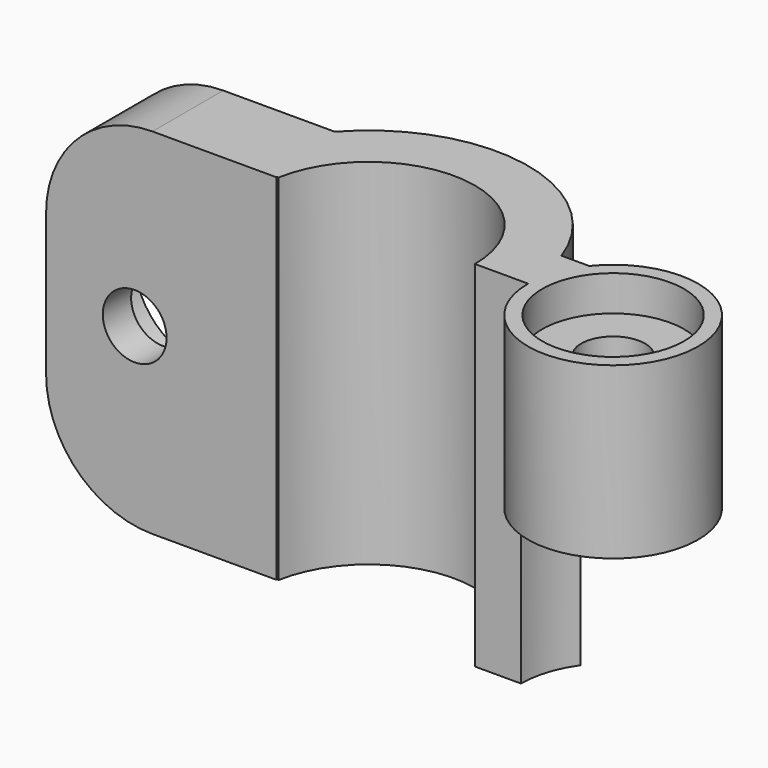
from build123d import *

# Parameters (mm, degrees)
CYLINDER095_R     = 4
CYLINDER095_DEPTH = 20
CYLINDER096_R     = 4
CYLINDER096_DEPTH = 2
CYLINDER005_R     = 5.2
CYLINDER005_DEPTH = 10.4
CYLINDER003_R     = 1.8
CYLINDER003_DEPTH = 50
CYLINDER001_W     = 6
CYLINDER001_H     = 20
CYLINDER001_ANGLE = 180
CYLINDER004_R     = 1.8
CYLINDER004_DEPTH = 20
BOX_W             = 13
BOX_H             = 5
BOX_DEPTH         = 20
FILLET_R          = 6
CYLINDER002_R     = 4.8
CYLINDER002_DEPTH = 20
CYLINDER_W        = 9
CYLINDER_H        = 20
CYLINDER_ANGLE    = 170
BOX001_W          = 7.8
BOX001_H          = 3
BOX001_DEPTH      = 20


with BuildPart() as bolt_head_cylinder:
    # Cylinder095 → Cylinder095 (new body)
    with BuildSketch(Plane(origin=(-14, 3, 10), x_dir=(1, 0, 0), z_dir=(0, 1, 0))):
        Circle(CYLINDER095_R)
    extrude(amount=CYLINDER095_DEPTH)


with BuildPart() as bolt_head_side_cylinder:
    # Cylinder096 → Cylinder096 (new body)
    with BuildSketch(Plane(origin=(13.8, 0, 18), x_dir=(1, 0, 0), z_dir=(0, 0, 1))):
        Circle(CYLINDER096_R)
    extrude(amount=CYLINDER096_DEPTH)


with BuildPart() as top_half_remove_fusion:
    # Cylinder005 → Cylinder005 (new body)
    with BuildSketch(Plane(origin=(13.8, 0, 0), x_dir=(1, 0, 0), z_dir=(0, 0, 1))):
        Circle(CYLINDER005_R)
    extrude(amount=CYLINDER005_DEPTH)

    # Fusion002: union bolt head cylinder, bolt head side cylinder
    add(bolt_head_cylinder.part)
    add(bolt_head_side_cylinder.part)


with BuildPart() as bolt_hole:
    # Cylinder003 → Cylinder003 (new body)
    with BuildSketch(Plane(origin=(-14, 20, 10), x_dir=(1, 0, 0), z_dir=(0, -1, 0))):
        Circle(CYLINDER003_R)
    extrude(amount=CYLINDER003_DEPTH)


with BuildPart() as hole_cylinder:
    # Cylinder001 → Cylinder001 (revolve)
    with BuildSketch(Plane.XZ):
        with Locations((3, 10)):
            Rectangle(CYLINDER001_W, CYLINDER001_H)
    revolve(axis=Axis((0, 0, 0), (0, 0, 1)), revolution_arc=CYLINDER001_ANGLE)


with BuildPart() as hole_fusion:
    # Cylinder004 → Cylinder004 (new body)
    with BuildSketch(Plane(origin=(13.8, 0, 0), x_dir=(1, 0, 0), z_dir=(0, 0, 1))):
        Circle(CYLINDER004_R)
    extrude(amount=CYLINDER004_DEPTH)

    # Fusion: union bolt hole, hole cylinder
    add(bolt_hole.part)
    add(hole_cylinder.part)


with BuildPart() as petal_fillet:
    # Box → Box (new body)
    with BuildSketch(Plane(origin=(-19, 1, 0), x_dir=(1, 0, 0), z_dir=(0, 0, 1))):
        with Locations((6.5, 2.5)):
            Rectangle(BOX_W, BOX_H)
    extrude(amount=BOX_DEPTH)

    # Fillet
    fillet_edges = [petal_fillet.edges().sort_by_distance(p)[0] for p in [
        (-19, 3.5, 20),
        (-19, 3.5, 0),
    ]]
    fillet(fillet_edges, radius=FILLET_R)


with BuildPart() as side_cylinder:
    # Cylinder002 → Cylinder002 (new body)
    with BuildSketch(Plane(origin=(13.8, 0, 0), x_dir=(1, 0, 0), z_dir=(0, 0, 1))):
        Circle(CYLINDER002_R)
    extrude(amount=CYLINDER002_DEPTH)


with BuildPart() as external_cylinder:
    # Cylinder → Cylinder (revolve)
    with BuildSketch(Plane.XZ):
        with Locations((4.5, 10)):
            Rectangle(CYLINDER_W, CYLINDER_H)
    revolve(axis=Axis((0, 0, 0), (0, 0, 1)), revolution_arc=CYLINDER_ANGLE)


with BuildPart() as top_half_clone:
    # Box001 → Box001 (new body)
    with BuildSketch(Plane(origin=(6, 0, 0), x_dir=(1, 0, 0), z_dir=(0, 0, 1))):
        with Locations((3.9, 1.5)):
            Rectangle(BOX001_W, BOX001_H)
    extrude(amount=BOX001_DEPTH)

    # Fusion001: union petal fillet, side cylinder, external cylinder
    add(petal_fillet.part)
    add(side_cylinder.part)
    add(external_cylinder.part)

    # Cut: cut hole fusion
    add(hole_fusion.part, mode=Mode.SUBTRACT)

    # Cut001: cut top half remove fusion
    add(top_half_remove_fusion.part, mode=Mode.SUBTRACT)


solid = top_half_clone.part
